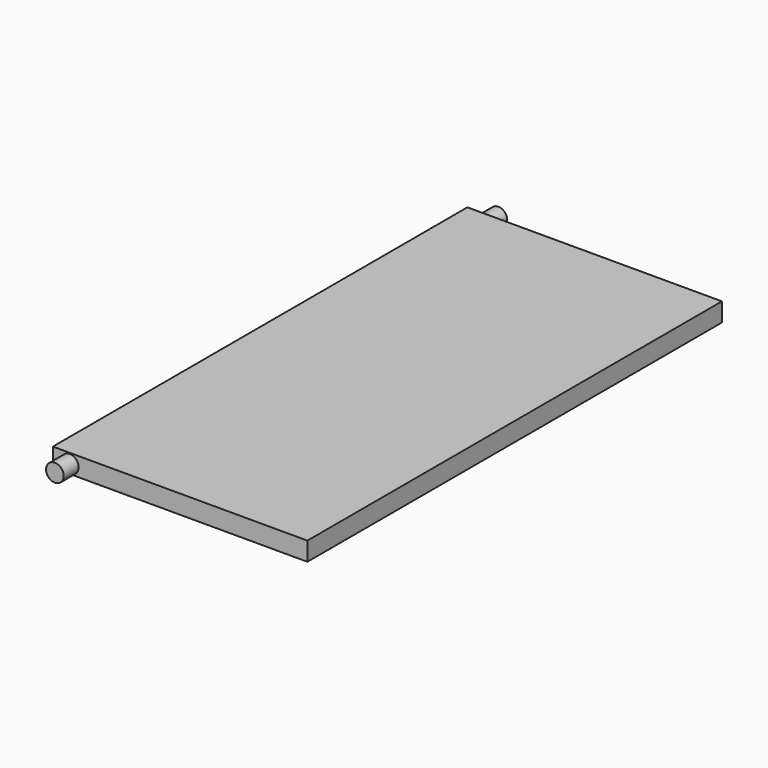
from build123d import *

# Parameters (mm, degrees)
BOX_W             = 45
BOX_H             = 91.6
BOX_DEPTH         = 3.3
CYLINDER_R        = 1.56
CYLINDER_DEPTH    = 3.3
CYLINDER001_R     = 1.56
CYLINDER001_DEPTH = 3.3


with BuildPart() as part:
    # Box → Box (join)
    with BuildSketch(Plane.XY):
        with Locations((22.5, 45.8)):
            Rectangle(BOX_W, BOX_H)
    extrude(amount=BOX_DEPTH)

    # Cylinder → Cylinder (join)
    with BuildSketch(Plane(origin=(3, 0, 1.55), x_dir=(1, 0, 0), z_dir=(0, -1, 0))):
        Circle(CYLINDER_R)
    extrude(amount=CYLINDER_DEPTH)

    # Cylinder001 → Cylinder001 (join)
    with BuildSketch(Plane(origin=(3, 94.7, 1.55), x_dir=(1, 0, 0), z_dir=(0, -1, 0))):
        Circle(CYLINDER001_R)
    extrude(amount=CYLINDER001_DEPTH)


solid = part.part
